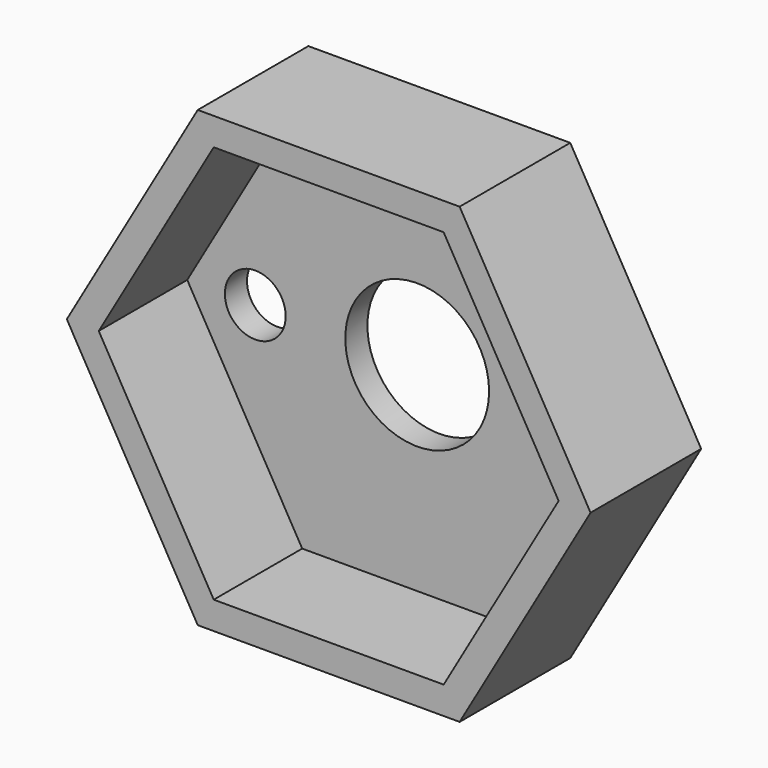
from build123d import *

# Parameters (mm, degrees)
F1_DEPTH = 5
F2_DEPTH = 20
F3_R     = 13
F4_DEPTH = 25
F5_R     = 5.5
F6_DEPTH = 25


with BuildPart() as f1:
    # F0 (on Front) → F1 (new body)
    with BuildSketch(Plane.XZ):
        Polygon((23.6713610368, -41), (47.3427220735, 0), (23.6713610368, 41), (-23.6713610368, 41), (-47.3427220735, 0), (-23.6713610368, -41), align=None)
        Polygon((20.7846096908, 36), (41.5692193817, 0), (20.7846096908, -36), (-20.7846096908, -36), (-41.5692193817, 0), (-20.7846096908, 36), align=None, mode=Mode.SUBTRACT)
        Polygon((23.6713610368, -41), (47.3427220735, 0), (23.6713610368, 41), (-23.6713610368, 41), (-47.3427220735, 0), (-23.6713610368, -41), align=None)
        Polygon((20.7846096908, 36), (41.5692193817, 0), (20.7846096908, -36), (-20.7846096908, -36), (-41.5692193817, 0), (-20.7846096908, 36), align=None, mode=Mode.SUBTRACT)
        Polygon((20.7846096908, -36), (41.5692193817, 0), (20.7846096908, 36), (-20.7846096908, 36), (-41.5692193817, 0), (-20.7846096908, -36), align=None)
    extrude(amount=-F1_DEPTH)

    # F0 (on Front) → F2 (join)
    with BuildSketch(Plane.XZ):
        Polygon((23.6713610368, -41), (47.3427220735, 0), (23.6713610368, 41), (-23.6713610368, 41), (-47.3427220735, 0), (-23.6713610368, -41), align=None)
        Polygon((20.7846096908, 36), (41.5692193817, 0), (20.7846096908, -36), (-20.7846096908, -36), (-41.5692193817, 0), (-20.7846096908, 36), align=None, mode=Mode.SUBTRACT)
    extrude(amount=F2_DEPTH)

    # F3 (on face) → F4 (cut)
    with BuildSketch(Plane.XZ):
        Circle(F3_R)
    extrude(amount=-F4_DEPTH, mode=Mode.SUBTRACT)

    # F5 (on face) → F6 (cut)
    with BuildSketch(Plane.XZ):
        with Locations((29.2692193817, 0)):
            Circle(F5_R)
        with Locations((-29.2692193817, 0)):
            Circle(F5_R)
    extrude(amount=-F6_DEPTH, mode=Mode.SUBTRACT)


solid = f1.part
